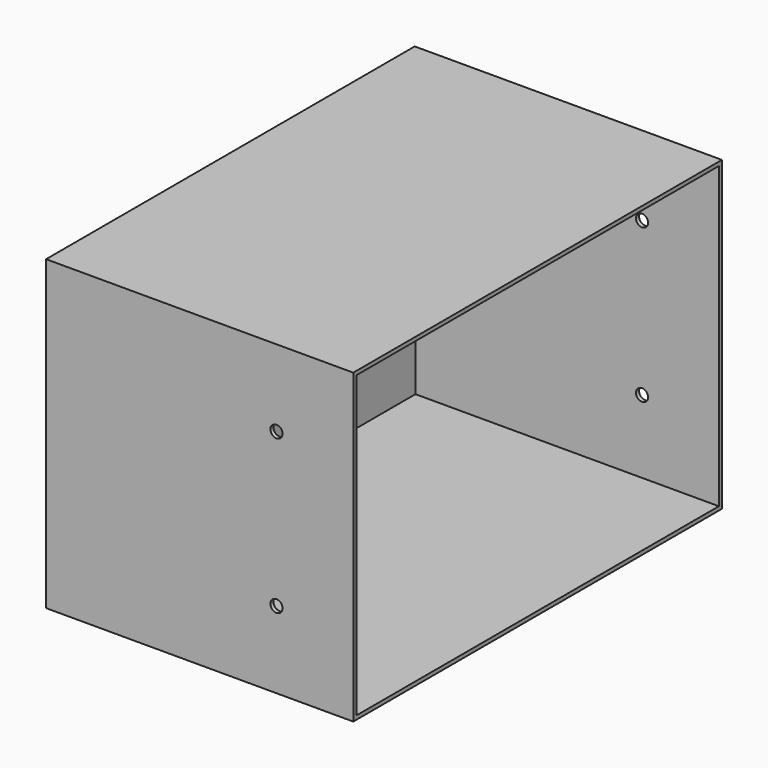
from build123d import *

# Parameters (mm, degrees)
F0_W     = 304.8
F0_H     = 203.2
F1_DEPTH = 203.2
F2_T     = -2.54
F4_D     = 8


with BuildPart() as f1:
    # F0 (on Right) → F1 (new body)
    with BuildSketch(Plane.YZ):
        with Locations((152.4, -101.6)):
            Rectangle(F0_W, F0_H)
    extrude(amount=F1_DEPTH)

    # F2
    f2_openings = [f1.faces().sort_by_distance(p)[0] for p in [
        (203.2, 152.4, -101.6),
    ]]
    offset(amount=F2_T, openings=f2_openings)

    # F4 (through all)
    with Locations(Plane.XZ):
        with Locations((152.4, -50.8), (152.4, -152.4)):
            Hole(F4_D / 2)


solid = f1.part
